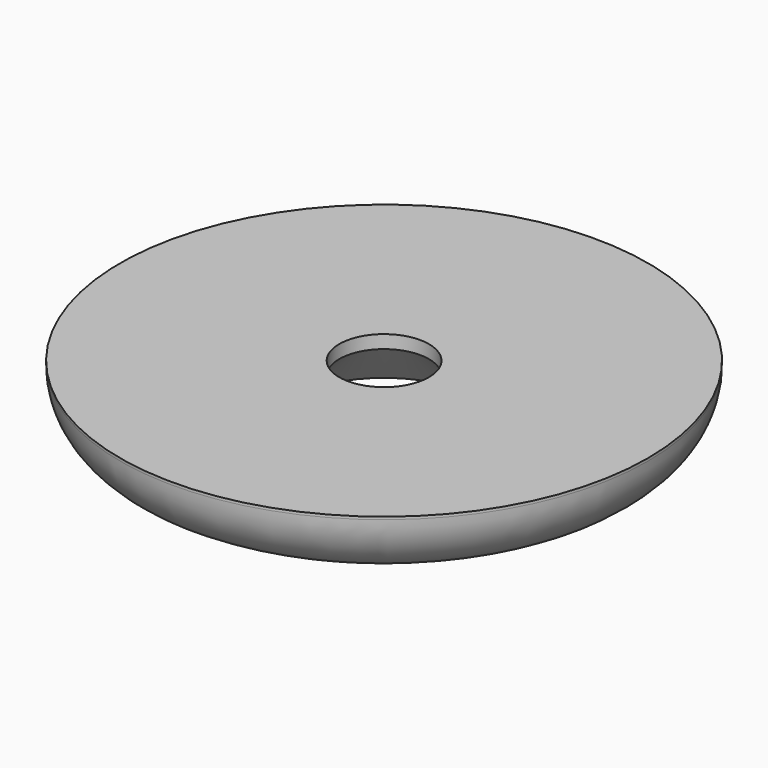
from build123d import *

# Parameters (mm, degrees)
TUBE001_R       = 10
TUBE001_R_2     = 1.7
TUBE001_DEPTH   = 2.5
CHAMFER002_SIZE = 2
FILLET001_R     = 2.4


with BuildPart() as part:
    # Tube001 → Tube001 (new body)
    with BuildSketch(Plane.XY):
        Circle(TUBE001_R)
        Circle(TUBE001_R_2, mode=Mode.SUBTRACT)
    extrude(amount=TUBE001_DEPTH)

    # Chamfer002
    chamfer002_edges = [part.edges().sort_by_distance(p)[0] for p in [
        (-1.7, 0, 0),
    ]]
    chamfer(chamfer002_edges, length=CHAMFER002_SIZE)

    # Fillet001
    fillet001_edges = [part.edges().sort_by_distance(p)[0] for p in [
        (-10, 0, 0),
    ]]
    fillet(fillet001_edges, radius=FILLET001_R)


with BuildPart() as part_1:
    # Fillet001 placement: moved
    add(part.part.moved(Location((0, 0, 50))))


solid = part_1.part
